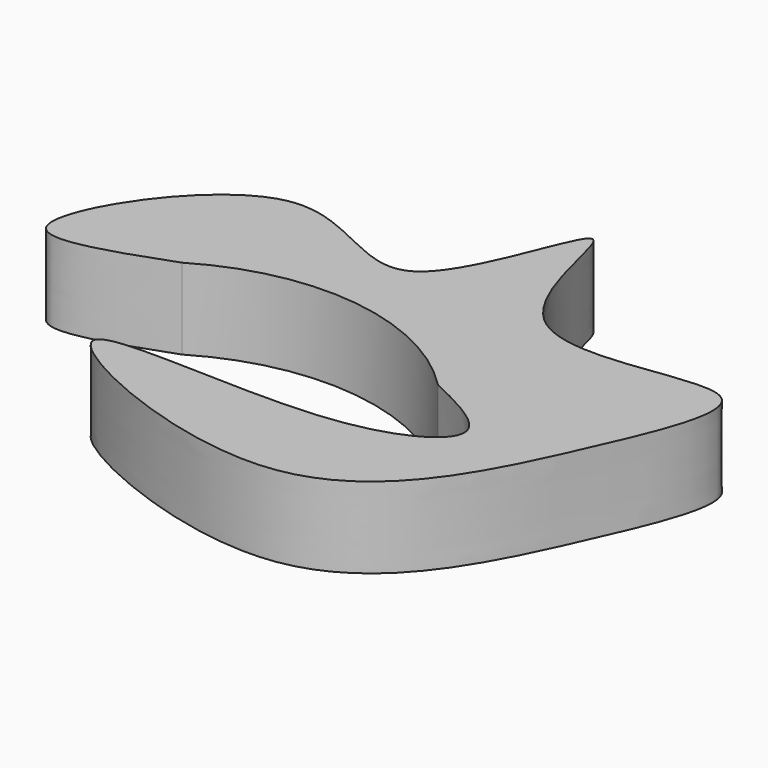
from build123d import *

# Parameters (mm, degrees)
F1_DEPTH = 25.4


with BuildPart() as f1:
    # F0 (on Top) → F1 (new body)
    with BuildSketch(Plane.XY):
        with BuildLine():
            ThreePointArc((-89.4356817007, 11.3563593477), (-42.747289483, 21.1970268207), (0, 0))
            add(Edge.make_bspline(
                [(-89.4356817007, 11.3563593477), (-107.36082568, 4.8238372588), (-147.7226557856, -9.8853637952), (-90.5257423249, 79.0960498921), (-38.0389986127, 16.0337465893), (-15.7863094454, 116.589853512), (-12.9322729548, 17.7668364868), (75.0524269655, 55.4078513911), (47.8704758759, -8.6322465044), (11.5466332415, -85.6600691176), (-125.4826436596, -20.6270749372), (-7.1277341094, -38.5673092618), (31.9425448428, -15.5116324943), (10.1742833727, -4.9407379828), (0, 0)],
                knots=[0, 0, 0, 0, 0.0723147919, 0.1628303431, 0.2433985416, 0.3235157963, 0.4024204314, 0.4908410631, 0.5665370978, 0.6703023514, 0.7744911144, 0.8730445815, 0.9406622157, 1, 1, 1, 1], degree=3))
        make_face()
    extrude(amount=-F1_DEPTH)


solid = f1.part
